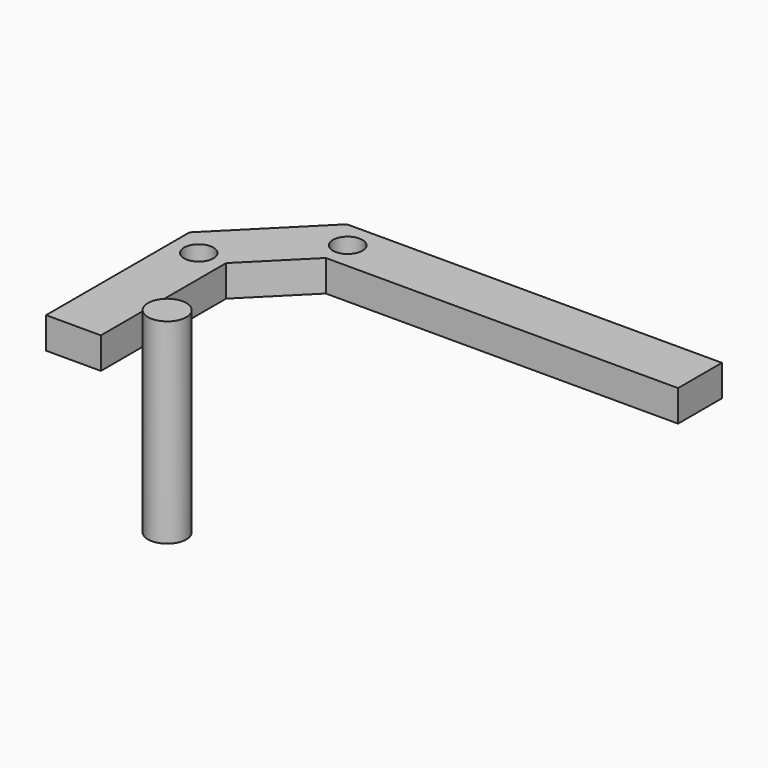
from build123d import *

# Parameters (mm, degrees)
F0_W      = 57.15
F0_H      = 8.89
F0_W_2    = 8.89
F0_H_2    = 25.4
F0_R      = 3.1115
F1_DEPTH  = 5.08
F2_R      = 2.38125
F2_R_2    = 2.3876
F3_DEPTH  = 5.081
F1_FACE_R = 3.1115
F4_DEPTH  = 26.67


with BuildPart() as f1:
    # F0 (on Top) → F1 (new body)
    with BuildSketch(Plane.XY):
        with Locations((12.885505, 18.822755)):
            Rectangle(F0_W, F0_H)
        with Locations((-29.114751, -7.302501)):
            Rectangle(F0_W_2, F0_H_2)
        Polygon((-15.689495, 14.377755), (-15.689495, 23.267755), (-19.371853, 23.267755), (-26.465802, 16.173806), (-33.559751, 9.079857), (-33.559751, 5.397499), (-24.669751, 5.397499), align=None)
        with Locations((9.55675, -49.339503)):
            Circle(F0_R)
    extrude(amount=F1_DEPTH)

    # F2 (on face) → F3 (cut, through all)
    with BuildSketch(Plane.XY.offset(5.08)):
        with Locations((-29.114751, 5.397499)):
            Circle(F2_R)
        with Locations((-15.689495, 18.822755)):
            Circle(F2_R_2)
    extrude(amount=-F3_DEPTH, mode=Mode.SUBTRACT)

    # F1_face (on face) → F4 (join)
    with BuildSketch(Plane(origin=(9.55675, -49.339503, 5.08), x_dir=(1, 0, 0), z_dir=(0, 0, 1))):
        Circle(F1_FACE_R)
    extrude(amount=F4_DEPTH)


solid = f1.part
